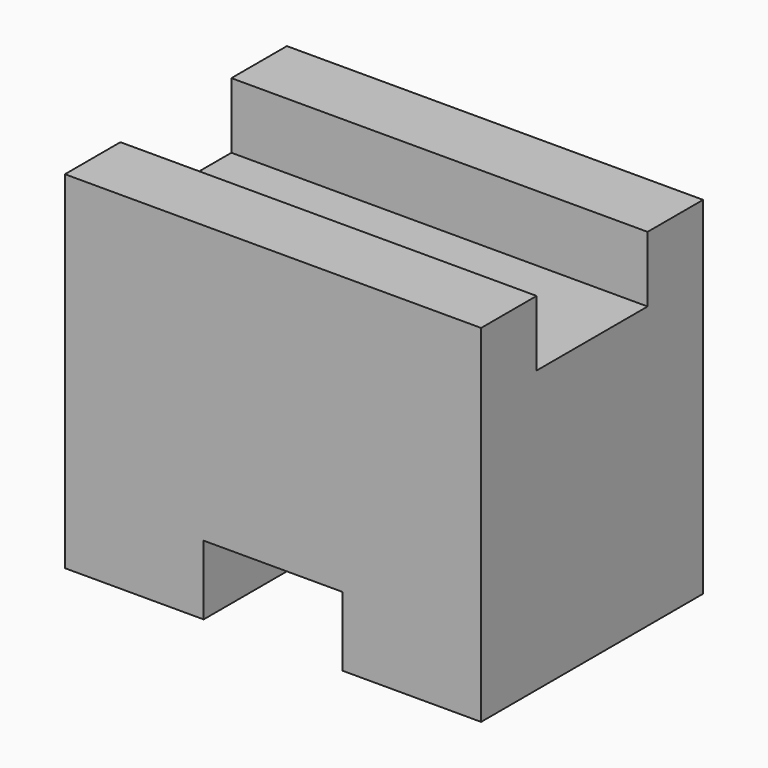
from build123d import *

# Parameters (mm, degrees)
F1_DEPTH = 25.4
F2_W     = 12.7
F2_H     = 6.35
F3_DEPTH = 38.101


with BuildPart() as f1:
    # F0 (on Front) → F1 (new body)
    with BuildSketch(Plane.XZ):
        Polygon((38.1, 31.75), (0, 31.75), (0, 0), (12.7, 0), (12.7, 6.35), (25.4, 6.35), (25.4, 0), (38.1, 0), align=None)
    extrude(amount=F1_DEPTH)

    # F2 (on Right) → F3 (cut, through all)
    with BuildSketch(Plane.YZ):
        with Locations((-12.7, 28.910964)):
            Rectangle(F2_W, F2_H)
    extrude(amount=F3_DEPTH, mode=Mode.SUBTRACT)


solid = f1.part
